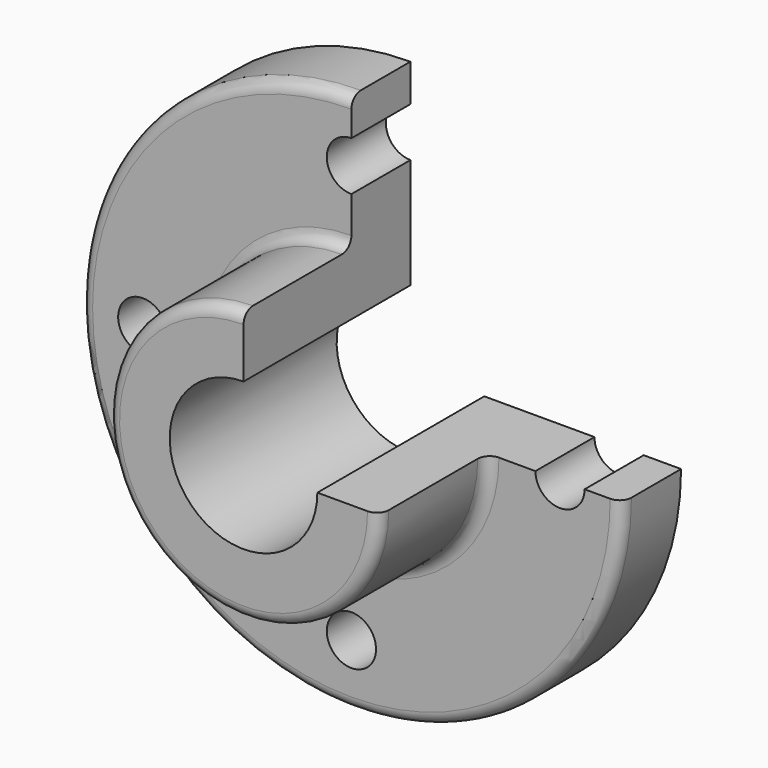
from build123d import *

# Parameters (mm, degrees)
F1_ANGLE = 270
F3_R     = 3.048
F2_R     = 6.35
F4_DEPTH = 53.849


with BuildPart() as f1:
    # F0 (on Top) → F1 (revolve)
    with BuildSketch(Plane.XY):
        Polygon((19.05, 53.848), (19.05, 0), (35.052, 0), (35.052, 34.798), (69.85, 34.798), (69.85, 53.848), align=None)
    revolve(axis=Axis((0, 34.445301, 0), (0, 1, 0)), revolution_arc=F1_ANGLE)

    # F3
    f3_edges = [f1.edges().sort_by_distance(p)[0] for p in [
        (-49.391409, 34.798, -49.391409),
        (-24.785507, 0, -24.785507),
        (-24.785507, 34.798, -24.785507),
    ]]
    fillet(f3_edges, radius=F3_R)

    # F2 (on Front) → F4 (cut, through all)
    with BuildSketch(Plane.XZ):
        with Locations((0, 53.848)):
            Circle(F2_R)
        with Locations((53.848, 0)):
            Circle(F2_R)
        with Locations((0, -53.848)):
            Circle(F2_R)
        with Locations((-53.848, 0)):
            Circle(F2_R)
    extrude(amount=-F4_DEPTH, mode=Mode.SUBTRACT)


solid = f1.part
